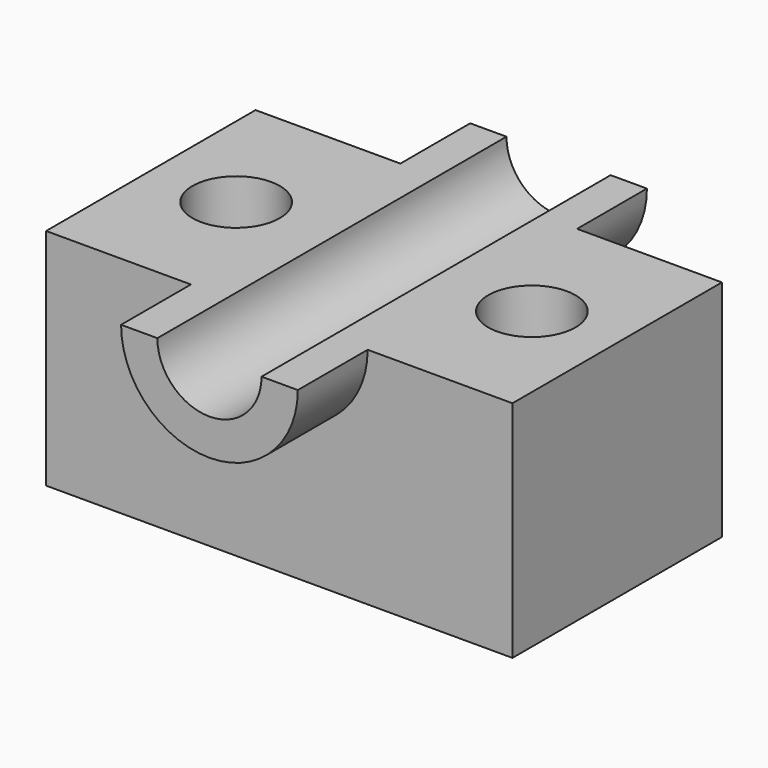
from build123d import *

# Parameters (mm, degrees)
F1_DEPTH = 38.1
F2_DEPTH = 63.5
F3_R     = 12.703802
F4_DEPTH = 65.251941


with BuildPart() as f1:
    # F0 (on Front) → F1 (new body, symmetric)
    with BuildSketch(Plane.XZ):
        with BuildLine():
            Line((-25.716836, 32.62547), (-67.867137, 32.62547))
            Line((-67.867137, 32.62547), (-67.867137, -32.62547))
            Line((-67.867137, -32.62547), (67.867137, -32.62547))
            Line((67.867137, -32.62547), (67.867137, 32.62547))
            Line((67.867137, 32.62547), (25.716836, 32.62547))
            ThreePointArc((25.716836, 32.62547), (0, 6.908634), (-25.716836, 32.62547))
        make_face()
    extrude(amount=F1_DEPTH, both=True)

    # F0 (on Front) → F2 (join, symmetric)
    with BuildSketch(Plane.XZ):
        with BuildLine():
            Line((-15.157554, 32.62547), (-25.716836, 32.62547))
            ThreePointArc((-25.716836, 32.62547), (0, 6.908634), (25.716836, 32.62547))
            Line((25.716836, 32.62547), (15.157554, 32.62547))
            ThreePointArc((15.157554, 32.62547), (0, 17.467917), (-15.157554, 32.62547))
        make_face()
    extrude(amount=F2_DEPTH, both=True)

    # F3 (on face) → F4 (cut, through all)
    with BuildSketch(Plane.XY.offset(32.62547)):
        with Locations((-43.029986, 0)):
            Circle(F3_R)
        with Locations((43.029986, 0)):
            Circle(F3_R)
    extrude(amount=-F4_DEPTH, mode=Mode.SUBTRACT)


solid = f1.part
